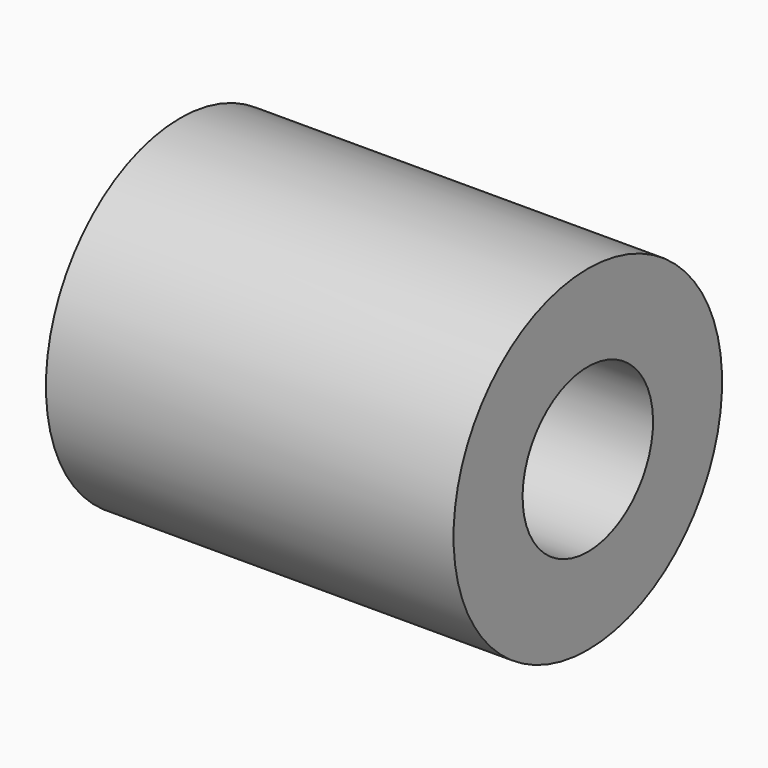
from build123d import *

# Parameters (mm, degrees)
CYLINDER1393_R     = 1.7
CYLINDER1393_DEPTH = 8.5
CYLINDER1391_R     = 3.5
CYLINDER1391_DEPTH = 8.5


with BuildPart() as cylinder1393:
    # Cylinder1393 → Cylinder1393 (new body)
    with BuildSketch(Plane(origin=(436, 67, 100), x_dir=(0, 0, -1), z_dir=(1, 0, 0))):
        Circle(CYLINDER1393_R)
    extrude(amount=CYLINDER1393_DEPTH)


with BuildPart() as bucket_right_half_long_spacer:
    # Cylinder1391 → Cylinder1391 (new body)
    with BuildSketch(Plane(origin=(436, 67, 100), x_dir=(0, 0, -1), z_dir=(1, 0, 0))):
        Circle(CYLINDER1391_R)
    extrude(amount=CYLINDER1391_DEPTH)

    # Cut014358: cut Cylinder1393
    add(cylinder1393.part, mode=Mode.SUBTRACT)


with BuildPart() as bucket_right_half_long_spacer_1:
    # Cut014358 placement: moved
    add(bucket_right_half_long_spacer.part.moved(Location((42, 0, 0))))


solid = bucket_right_half_long_spacer_1.part
